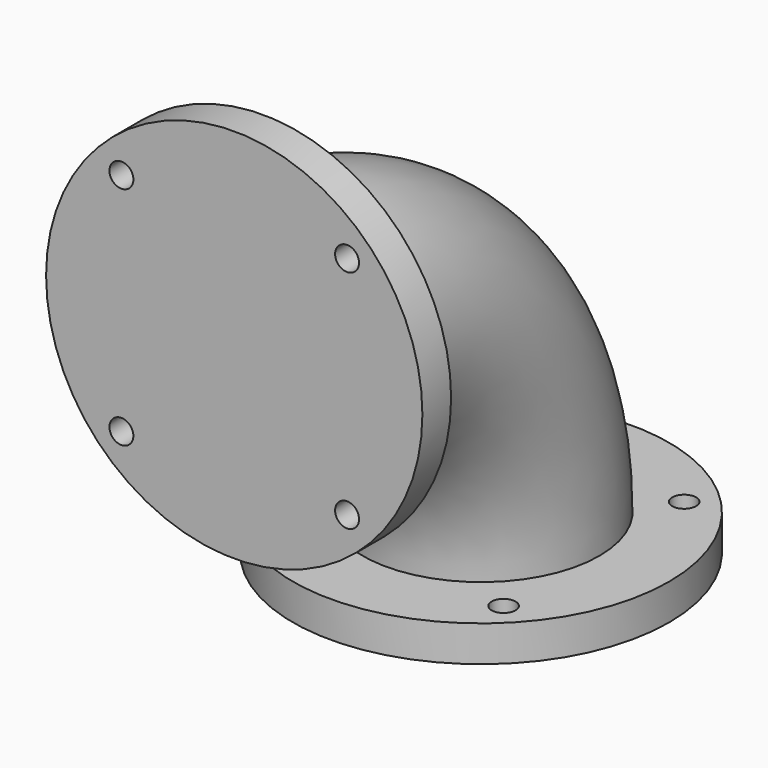
from build123d import *

# Parameters (mm, degrees)
F0_R      = 89
F2_ANGLE  = 90
F3_R      = 141.5
F4_DEPTH  = 27
F5_R      = 141.5
F6_DEPTH  = 27
F7_R      = 9
F8_DEPTH  = 27
F9_R      = 9
F10_DEPTH = 27


with BuildPart() as f2:
    # F0 (on Front) → F2 (revolve)
    with BuildSketch(Plane.XZ):
        Circle(F0_R)
    revolve(axis=Axis((-94.423547, 0, -205), (-1, 0, 0)), revolution_arc=F2_ANGLE)

    # F3 (on face) → F4 (join)
    with BuildSketch(Plane.XZ):
        Circle(F3_R)
    extrude(amount=F4_DEPTH)

    # F5 (on face) → F6 (join)
    with BuildSketch(Plane(origin=(0, 0, -205), x_dir=(1, 0, 0), z_dir=(0, 0, -1))):
        with Locations((0, -205)):
            Circle(F5_R)
    extrude(amount=F6_DEPTH)

    # F7 (on face) → F8 (cut, through all)
    with BuildSketch(Plane(origin=(0, 0, -232), x_dir=(1, 0, 0), z_dir=(0, 0, -1))):
        with Locations((84.852814, -289.852814)):
            Circle(F7_R)
        with Locations((84.852814, -120.147186)):
            Circle(F7_R)
        with Locations((-84.852814, -120.147186)):
            Circle(F7_R)
        with Locations((-84.852814, -289.852814)):
            Circle(F7_R)
    extrude(amount=-F8_DEPTH, mode=Mode.SUBTRACT)

    # F9 (on face) → F10 (cut, through all)
    with BuildSketch(Plane.XZ.offset(27)):
        with Locations((-84.852814, 84.852814)):
            Circle(F9_R)
        with Locations((-84.852814, -84.852814)):
            Circle(F9_R)
        with Locations((84.852814, -84.852814)):
            Circle(F9_R)
        with Locations((84.852814, 84.852814)):
            Circle(F9_R)
    extrude(amount=-F10_DEPTH, mode=Mode.SUBTRACT)


solid = f2.part
